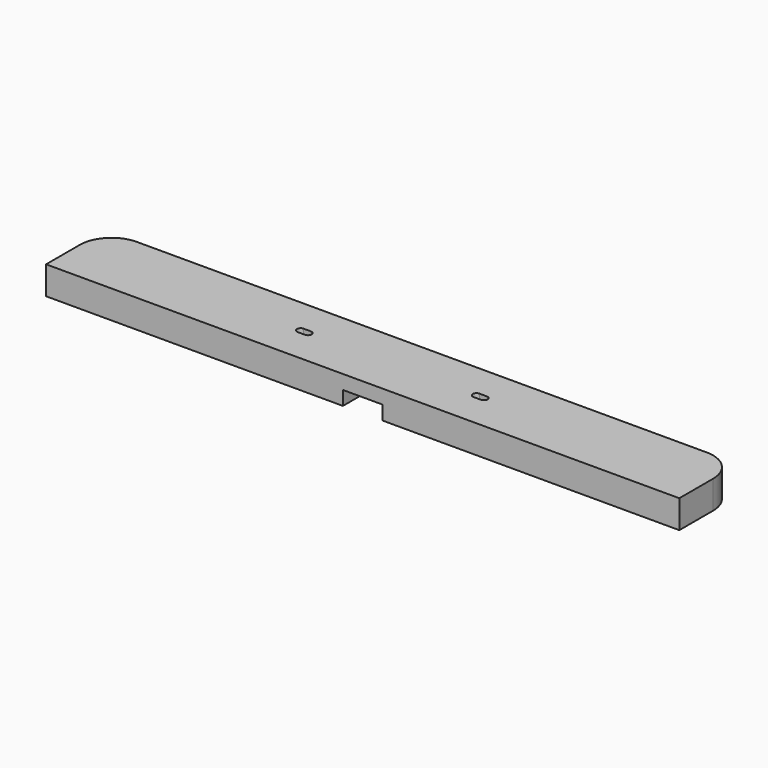
from build123d import *

# Parameters (mm, degrees)
PAD004_DEPTH    = 32
POCKET005_DEPTH = 32
POCKET006_DEPTH = 16


with BuildPart() as part:
    # Sketch009 → Pad004 (new body)
    with BuildSketch(Plane.XY):
        with BuildLine():
            Line((-324, 84), (324, 84))
            ThreePointArc((360, 48), (349.455844, 73.455844), (324, 84))
            Line((360, 48), (360, 0))
            Line((360, 0), (-360, 0))
            Line((-360, 0), (-360, 48))
            ThreePointArc((-324, 84), (-349.455844, 73.455844), (-360, 48))
        make_face()
    extrude(amount=PAD004_DEPTH)

    # Sketch010 (on Face8 of Pad004) → Pocket005 (cut)
    with BuildSketch(Plane.XY.offset(32)):
        with BuildLine():
            ThreePointArc((-104.2, 46.2), (-108.4, 42), (-104.2, 37.8))
            Line((-104.2, 37.8), (-95.8, 37.8))
            ThreePointArc((-95.8, 37.8), (-91.6, 42), (-95.8, 46.2))
            Line((-95.8, 46.2), (-104.2, 46.2))
        make_face()
    pocket005 = extrude(amount=-POCKET005_DEPTH, mode=Mode.SUBTRACT)

    # Mirrored: Pocket005 across Sketch010 V_Axis
    add(pocket005.mirror(Plane(origin=(0, 0, 32), x_dir=(0, 0, 1), z_dir=(1, 0, 0))), mode=Mode.SUBTRACT)

    # Sketch011 (on Face4 of Mirrored) → Pocket006 (cut)
    with BuildSketch(Plane(origin=(0, 0, 0), x_dir=(1, 0, 0), z_dir=(0, 0, -1))):
        with BuildLine():
            Line((-22.5, 0), (22.5, 0))
            Line((22.5, 0), (22.5, -57))
            ThreePointArc((16.5, -63), (20.742641, -61.242641), (22.5, -57))
            Line((16.5, -63), (-16.5, -63))
            ThreePointArc((-22.5, -57), (-20.742641, -61.242641), (-16.5, -63))
            Line((-22.5, -57), (-22.5, 0))
        make_face()
    extrude(amount=-POCKET006_DEPTH, mode=Mode.SUBTRACT)


solid = part.part
